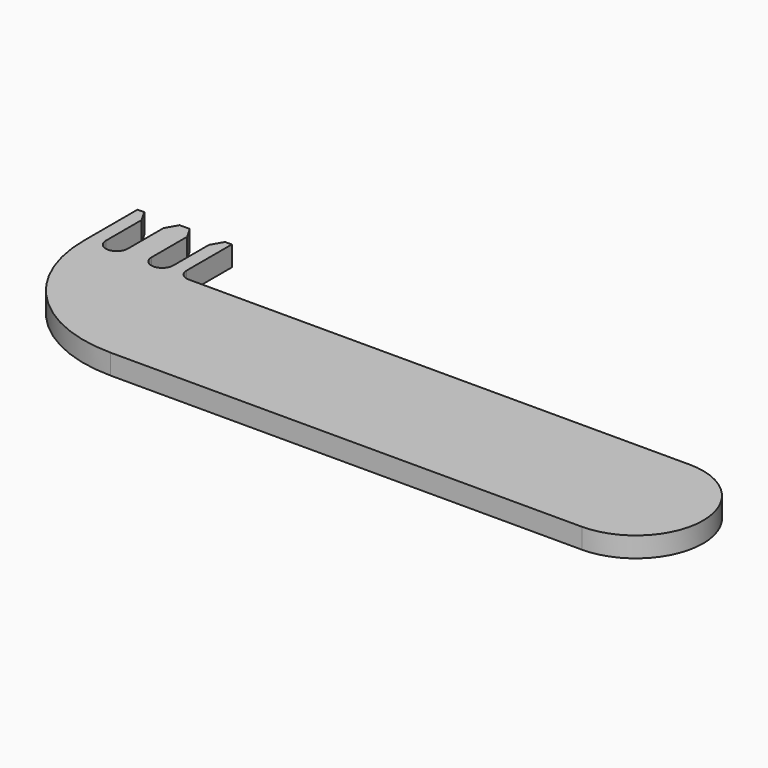
from build123d import *

# Parameters (mm, degrees)
F1_DEPTH = 3


with BuildPart() as f1:
    # F0 (on Top) → F1 (new body)
    with BuildSketch(Plane.XY):
        with BuildLine():
            Line((-21.246783, 0), (0, 0))
            Line((0, 0), (48.753217, 0))
            ThreePointArc((48.753217, 0), (58.753217, 10), (48.753217, 20))
            Line((48.753217, 20), (-25.621783, 20))
            ThreePointArc((-25.621783, 20), (-26.770831, 20.475951), (-27.246783, 21.625))
            Line((-27.246783, 21.625), (-27.246783, 30))
            Line((-27.246783, 30), (-28.246783, 30))
            Line((-28.246783, 30), (-29.246783, 28.267949))
            Line((-29.246783, 28.267949), (-29.246783, 21.625))
            ThreePointArc((-29.246783, 21.625), (-29.722734, 20.475951), (-30.871783, 20))
            ThreePointArc((-30.871783, 20), (-32.020831, 20.475951), (-32.496783, 21.625))
            Line((-32.496783, 21.625), (-32.496783, 28.267949))
            Line((-32.496783, 28.267949), (-33.496783, 30))
            Line((-33.496783, 30), (-34.996783, 30))
            Line((-34.996783, 30), (-35.996783, 28.267949))
            Line((-35.996783, 28.267949), (-35.996783, 21.625))
            ThreePointArc((-35.996783, 21.625), (-36.472734, 20.475951), (-37.621783, 20))
            ThreePointArc((-37.621783, 20), (-38.770831, 20.475951), (-39.246783, 21.625))
            Line((-39.246783, 21.625), (-39.246783, 28.267949))
            Line((-39.246783, 28.267949), (-40.246783, 30))
            Line((-40.246783, 30), (-41.246783, 30))
            Line((-41.246783, 30), (-41.246783, 20))
            ThreePointArc((-41.246783, 20), (-35.388918, 5.857864), (-21.246783, 0))
        make_face()
    extrude(amount=F1_DEPTH)


solid = f1.part
